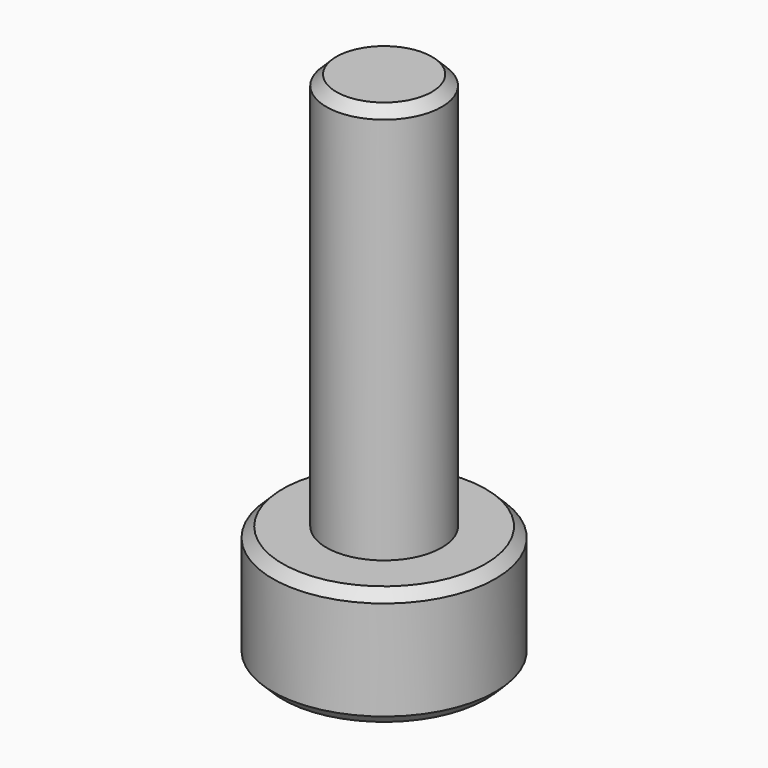
from build123d import *

# Parameters (mm, degrees)
SKETCH_R     = 2.8
PAD_DEPTH    = 3
SKETCH001_R  = 1.45
PAD001_DEPTH = 10
POCKET_DEPTH = 2
CHAMFER_SIZE = 0.25


with BuildPart() as part:
    # Sketch → Pad (new body)
    with BuildSketch(Plane.XY):
        Circle(SKETCH_R)
    extrude(amount=PAD_DEPTH)

    # Sketch001 (on Face3 of Pad) → Pad001 (join)
    with BuildSketch(Plane.XY.offset(3)):
        Circle(SKETCH001_R)
    extrude(amount=PAD001_DEPTH)

    # Sketch002 (on Face2 of Pad001) → Pocket (cut)
    with BuildSketch(Plane(origin=(0, 0, 0), x_dir=(1, 0, 0), z_dir=(0, 0, -1))):
        Polygon((1.259542, 0.814588), (-0.075682, 1.49809), (-1.335225, 0.683502), (-1.259542, -0.814588), (0.075682, -1.49809), (1.335225, -0.683502), align=None)
    extrude(amount=-POCKET_DEPTH, mode=Mode.SUBTRACT)

    # Chamfer
    chamfer_edges = [part.edges().sort_by_distance(p)[0] for p in [
        (-2.8, 0, 3),
        (-2.8, 0, 0),
        (1.297384, -0.065543, 0),
        (0.705454, 1.090796, 0),
        (-0.59193, 1.156339, 0),
        (-1.297384, 0.065543, 0),
        (-0.705454, -1.090796, 0),
        (0.59193, -1.156339, 0),
        (-1.45, 0, 13),
    ]]
    chamfer(chamfer_edges, length=CHAMFER_SIZE)


solid = part.part
